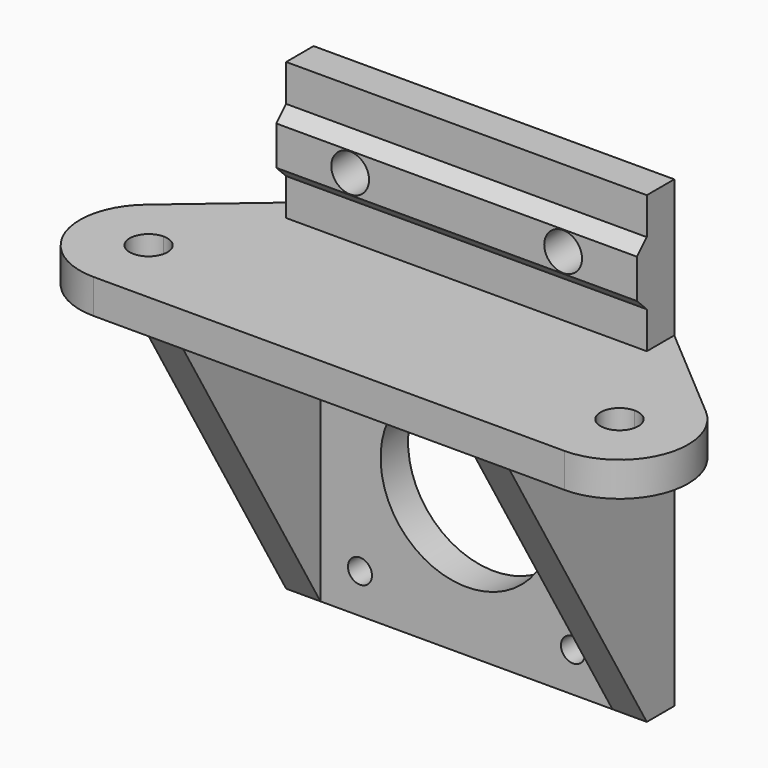
from build123d import *

# Parameters (mm, degrees)
F0_W      = 52.5
F0_H      = 47.5
F0_R      = 1.75
F0_R_2    = 12.5
F1_DEPTH  = 5
F3_DEPTH  = 25
F4_W      = 52.5
F4_H      = 5
F5_DEPTH  = 20
F7_DEPTH  = 5
F9_DEPTH  = 52.5
F10_R     = 2.75
F11_DEPTH = 30.001
F13_DEPTH = 52.5


with BuildPart() as f1:
    # F0 (on Front) → F1 (new body)
    with BuildSketch(Plane.XZ):
        with Locations((26.25, 23.75)):
            Rectangle(F0_W, F0_H)
        with Locations((10.75, 5.75)):
            Circle(F0_R, mode=Mode.SUBTRACT)
        with Locations((41.75, 5.75)):
            Circle(F0_R, mode=Mode.SUBTRACT)
        with Locations((26.25, 21.25)):
            Circle(F0_R_2, mode=Mode.SUBTRACT)
        with Locations((10.75, 36.75)):
            Circle(F0_R, mode=Mode.SUBTRACT)
        with Locations((41.75, 36.75)):
            Circle(F0_R, mode=Mode.SUBTRACT)
    extrude(amount=F1_DEPTH)

    # F2 (on face) → F3 (join)
    with BuildSketch(Plane.XZ.offset(5)):
        Polygon((0, 47.5), (0, 0), (5, 0), (5, 42.5), (47.5, 42.5), (47.5, 0), (52.5, 0), (52.5, 47.5), align=None)
    extrude(amount=F3_DEPTH)

    # F4 (on face) → F5 (join)
    with BuildSketch(Plane.XY.offset(47.5)):
        with Locations((26.25, -2.5)):
            Rectangle(F4_W, F4_H)
    extrude(amount=F5_DEPTH)

    # F6 (on face) → F7 (join)
    with BuildSketch(Plane.XY.offset(47.5)):
        with BuildLine():
            Line((0, 0), (-14.516609, -12.395098))
            ThreePointArc((-14.516609, -12.395098), (-17.405253, -23.460562), (-8.023115, -30))
            Line((-8.023115, -30), (0, -30))
            Line((0, -30), (0, 0))
        make_face()
        with BuildLine():
            ThreePointArc((-8.023115, -17.25), (-6.078571, -18.055456), (-5.273115, -20))
            ThreePointArc((-5.273115, -20), (-6.078571, -21.944544), (-8.023115, -22.75))
            ThreePointArc((-8.023115, -22.75), (-10.773115, -20), (-8.023115, -17.25))
        make_face(mode=Mode.SUBTRACT)
        with BuildLine():
            ThreePointArc((60.523115, -30), (69.905253, -23.460562), (67.016609, -12.395098))
            Line((67.016609, -12.395098), (52.5, 0))
            Line((52.5, 0), (52.5, -30))
            Line((52.5, -30), (60.523115, -30))
        make_face()
        with BuildLine():
            ThreePointArc((60.523115, -22.75), (57.773115, -20), (60.523115, -17.25))
            ThreePointArc((60.523115, -17.25), (62.467659, -18.055456), (63.273115, -20))
            ThreePointArc((63.273115, -20), (62.467659, -21.944544), (60.523115, -22.75))
        make_face(mode=Mode.SUBTRACT)
    extrude(amount=-F7_DEPTH)

    # F8 (on face) → F9 (join, through all)
    with BuildSketch(Plane.YZ.offset(52.5)):
        Polygon((-6.785, 54.66), (-5, 52.875), (-5, 62.125), (-6.785, 60.34), align=None)
    extrude(amount=-F9_DEPTH)

    # F10 (on face) → F11 (cut, through all)
    with BuildSketch(Plane(origin=(0, 0, 0), x_dir=(-1, 0, 0), z_dir=(0, 1, 0))):
        with Locations((-41.75, 57.5)):
            Circle(F10_R)
        with Locations((-10.75, 57.5)):
            Circle(F10_R)
    extrude(amount=-F11_DEPTH, mode=Mode.SUBTRACT)

    # F12 (on face) → F13 (cut, through all)
    with BuildSketch(Plane.YZ.offset(52.5)):
        Polygon((-5, 0), (-30, 42.5), (-30, 0), align=None)
    extrude(amount=-F13_DEPTH, mode=Mode.SUBTRACT)


solid = f1.part
